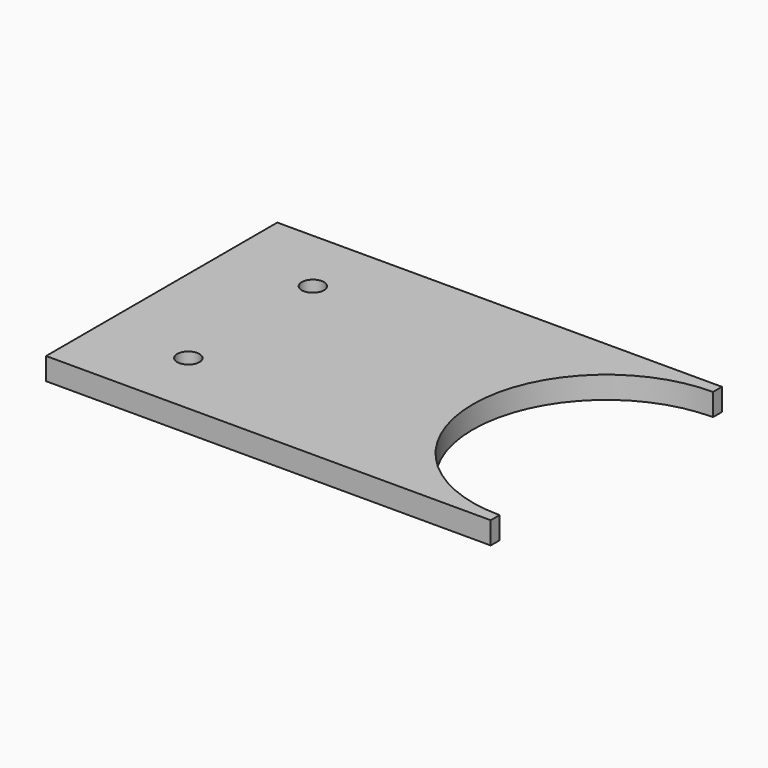
from build123d import *

# Parameters (mm, degrees)
F4_W     = 100
F4_H     = 65
F0_DEPTH = 5
F2_DEPTH = 5.001
F5_D     = 5


with BuildPart() as f0:
    # F4 (on Top) → F0 (new body)
    with BuildSketch(Plane.XY):
        Rectangle(F4_W, F4_H)
    extrude(amount=F0_DEPTH)

    # F1 (on face) → F2 (cut, through all)
    with BuildSketch(Plane.XY.offset(5)):
        with BuildLine():
            ThreePointArc((50, -30), (71.2132034356, -21.2132034356), (80, 0))
            ThreePointArc((80, 0), (71.2132034356, 21.2132034356), (50, 30))
            Line((50, 30), (50, -30))
        make_face()
        with BuildLine():
            Line((50, -30), (50, 30))
            ThreePointArc((50, 30), (20, 0), (50, -30))
        make_face()
    extrude(amount=-F2_DEPTH, mode=Mode.SUBTRACT)

    # F5 (through all)
    with Locations(Plane.XY.offset(5)):
        with Locations((-30, 17.5), (-30, -17.5)):
            Hole(F5_D / 2)


solid = f0.part
